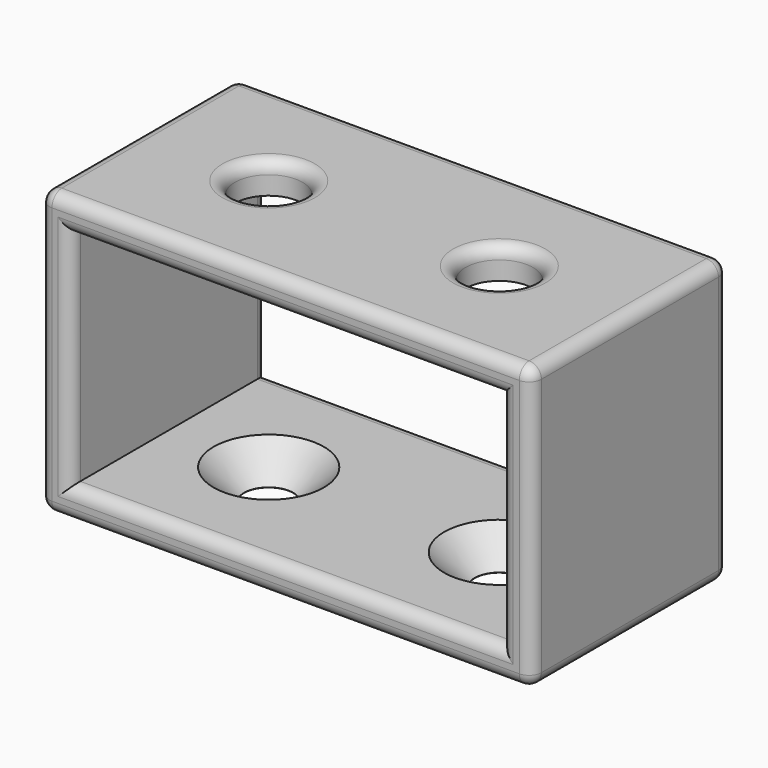
from build123d import *

# Parameters (mm, degrees)
SKETCH_W          = 40
SKETCH_H          = 23
PAD_DEPTH         = 20
SKETCH001_W       = 35
SKETCH001_H       = 18
POCKET_DEPTH      = 0.001
POCKET_DEPTH_BACK = 20.001
SKETCH002_R       = 2.75
POCKET001_DEPTH   = 3.5
SKETCH003_R       = 2
POCKET002_DEPTH   = 2.5
CHAMFER_SIZE      = 2.485
FILLET_R          = 1
FILLET001_R       = 1


with BuildPart() as part:
    # Sketch → Pad (new body)
    with BuildSketch(Plane.XZ):
        Rectangle(SKETCH_W, SKETCH_H)
    extrude(amount=PAD_DEPTH)

    # Sketch001 → Pocket (cut, two sides)
    with BuildSketch(Plane.XZ) as pocket_sk:
        Rectangle(SKETCH001_W, SKETCH001_H)
    extrude(amount=-POCKET_DEPTH, mode=Mode.SUBTRACT)
    extrude(pocket_sk.sketch, amount=POCKET_DEPTH_BACK, mode=Mode.SUBTRACT)

    # Sketch002 (on DatumPlane) → Pocket001 (cut)
    with BuildSketch(Plane(origin=(0, 0, 11.5), x_dir=(-1, 0, 0), z_dir=(0, 0, 1))):
        with Locations((-9.375, 10)):
            Circle(SKETCH002_R)
        with Locations((9.375, 10)):
            Circle(SKETCH002_R)
    extrude(amount=-POCKET001_DEPTH, mode=Mode.SUBTRACT)

    # Sketch003 (on DatumPlane) → Pocket002 (cut)
    with BuildSketch(Plane(origin=(0, 0, -9), x_dir=(-1, 0, 0), z_dir=(0, 0, 1))):
        with Locations((-9.375, 10)):
            Circle(SKETCH003_R)
        with Locations((9.375, 10)):
            Circle(SKETCH003_R)
    extrude(amount=-POCKET002_DEPTH, mode=Mode.SUBTRACT)

    # Chamfer
    chamfer_edges = [part.edges().sort_by_distance(p)[0] for p in [
        (-7.375, -10, -9),
        (11.375, -10, -9),
    ]]
    chamfer(chamfer_edges, length=CHAMFER_SIZE)

    # Fillet
    fillet_edges = [part.edges().sort_by_distance(p)[0] for p in [
        (-20, -20, 0),
        (0, -20, 11.5),
        (0, -20, -11.5),
        (20, -20, 0),
        (-17.5, -20, 0),
        (0, -20, 9),
        (17.5, -20, 0),
        (0, -20, -9),
        (-20, 0, 0),
        (0, 0, 11.5),
        (0, 0, -11.5),
        (20, 0, 0),
        (-17.5, 0, 0),
        (0, 0, 9),
        (17.5, 0, 0),
        (0, 0, -9),
        (-20, -10, 11.5),
        (20, -10, 11.5),
        (-20, -10, -11.5),
        (20, -10, -11.5),
    ]]
    fillet(fillet_edges, radius=FILLET_R)

    # Fillet001
    fillet001_edges = [part.edges().sort_by_distance(p)[0] for p in [
        (-6.625, -10, 11.5),
        (12.125, -10, 11.5),
    ]]
    fillet(fillet001_edges, radius=FILLET001_R)


solid = part.part
